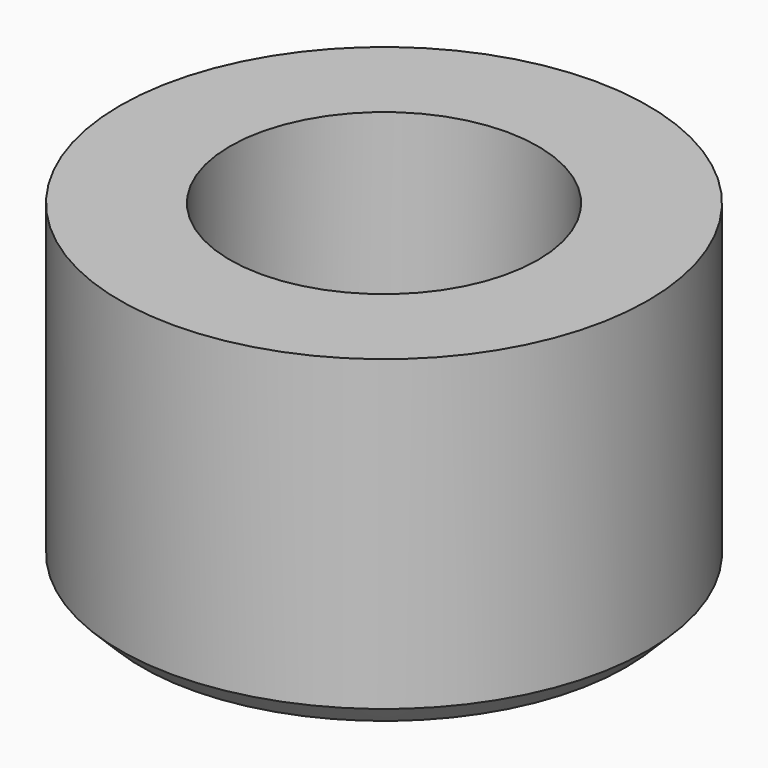
from build123d import *

# Parameters (mm, degrees)
F0_R     = 12
F0_R_2   = 7
F1_DEPTH = 15
F2_SIZE  = 1
F3_SIZE  = 0.1


with BuildPart() as f1:
    # F0 (on Top) → F1 (new body)
    with BuildSketch(Plane.XY):
        Circle(F0_R)
        Circle(F0_R_2, mode=Mode.SUBTRACT)
    extrude(amount=F1_DEPTH)

    # F2
    f2_edges = [f1.edges().sort_by_distance(p)[0] for p in [
        (-12, 0, 0),
    ]]
    chamfer(f2_edges, length=F2_SIZE)

    # F3
    f3_edges = [f1.edges().sort_by_distance(p)[0] for p in [
        (-7, 0, 0),
    ]]
    chamfer(f3_edges, length=F3_SIZE)


solid = f1.part
